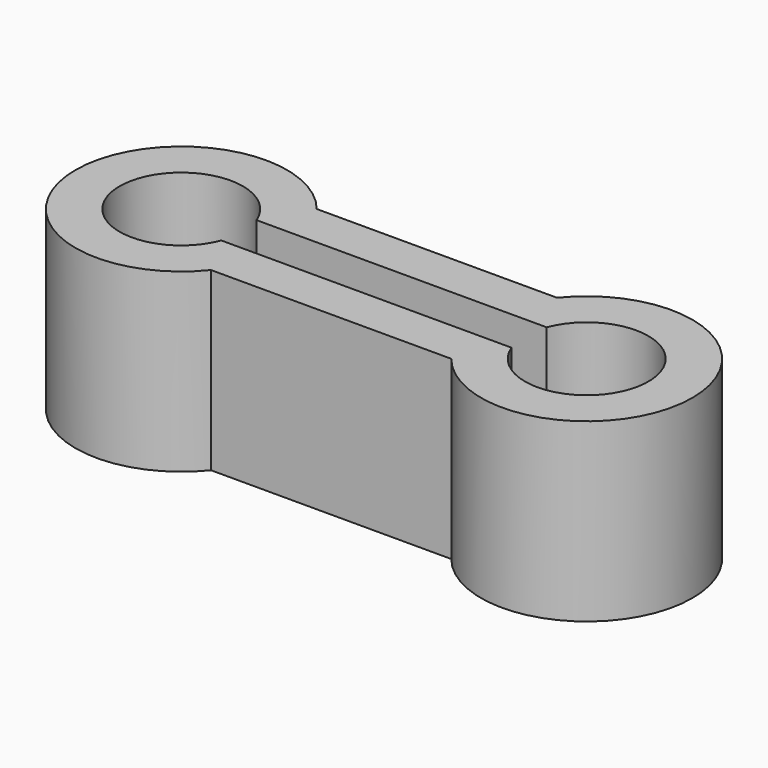
from build123d import *

# Parameters (mm, degrees)
F1_DEPTH = 5


with BuildPart() as f1:
    # F0 (on Top) → F1 (new body, symmetric)
    with BuildSketch(Plane.XY):
        with BuildLine():
            Line((0, -3.75), (6.816252, -3.75))
            ThreePointArc((6.816252, -3.75), (17.5, 0), (6.816252, 3.75))
            Line((6.816252, 3.75), (0, 3.75))
            Line((0, 3.75), (0, 1.25))
            Line((0, 1.25), (8.230826, 1.25))
            ThreePointArc((8.230826, 1.25), (15, 0), (8.230826, -1.25))
            Line((8.230826, -1.25), (0, -1.25))
            Line((0, -1.25), (0, -3.75))
        make_face()
        with BuildLine():
            Line((0, -3.75), (6.816252, -3.75))
            ThreePointArc((6.816252, -3.75), (17.5, 0), (6.816252, 3.75))
            Line((6.816252, 3.75), (0, 3.75))
            Line((0, 3.75), (0, 1.25))
            Line((0, 1.25), (8.230826, 1.25))
            ThreePointArc((8.230826, 1.25), (15, 0), (8.230826, -1.25))
            Line((8.230826, -1.25), (0, -1.25))
            Line((0, -1.25), (0, -3.75))
        make_face()
    extrude(amount=F1_DEPTH, both=True)

    # F2: F1 across plane


with BuildPart() as f1_1:
    add(f1.part)
    add(f1.part.mirror(Plane.YZ))


solid = f1_1.part
